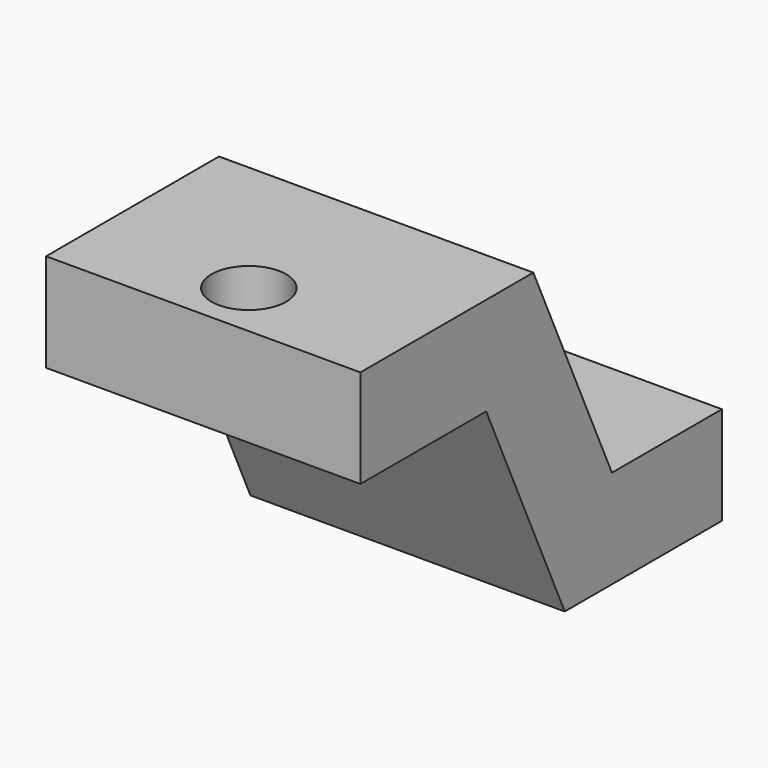
from build123d import *

# Parameters (mm, degrees)
PAD_DEPTH            = 16
SKETCH001_R          = 1.9
POCKET_DEPTH         = 5
SKETCH002_R          = 3
POCKET001_DEPTH      = 2
SKETCH003_R          = 1.65
POCKET002_DEPTH      = 5
BODY_PLACEMENT_ANGLE = 90


with BuildPart() as part:
    # Sketch → Pad (new body)
    with BuildSketch(Plane.XZ):
        Polygon((0, 0), (10, 0), (15, 11), (23, 11), (23, 16), (12, 16), (7, 5), (0, 5), align=None)
    extrude(amount=PAD_DEPTH)

    # Sketch001 (on Face5 of Pad) → Pocket (cut)
    with BuildSketch(Plane(origin=(0, 0, 16), x_dir=(-1, 0, 0), z_dir=(0, 0, 1))):
        with Locations((-20.09829, 8)):
            Circle(SKETCH001_R)
    extrude(amount=-POCKET_DEPTH, mode=Mode.SUBTRACT)

    # Sketch002 (on Face6 of Pocket) → Pocket001 (cut)
    with BuildSketch(Plane(origin=(0, 0, 5), x_dir=(-1, 0, 0), z_dir=(0, 0, 1))):
        with Locations((-4, 8)):
            Circle(SKETCH002_R)
    extrude(amount=-POCKET001_DEPTH, mode=Mode.SUBTRACT)

    # Sketch003 (on Face13 of Pocket001) → Pocket002 (cut)
    with BuildSketch(Plane(origin=(0, 0, 3), x_dir=(-1, 0, 0), z_dir=(0, 0, 1))):
        with Locations((-4, 8)):
            Circle(SKETCH003_R)
    extrude(amount=-POCKET002_DEPTH, mode=Mode.SUBTRACT)


with BuildPart() as part_1:
    # Body placement: moved
    add(part.part.moved(Location((8, 0, 0))).rotate(Axis((8, 0, 0), (0, 0, -1)), BODY_PLACEMENT_ANGLE))


solid = part_1.part
